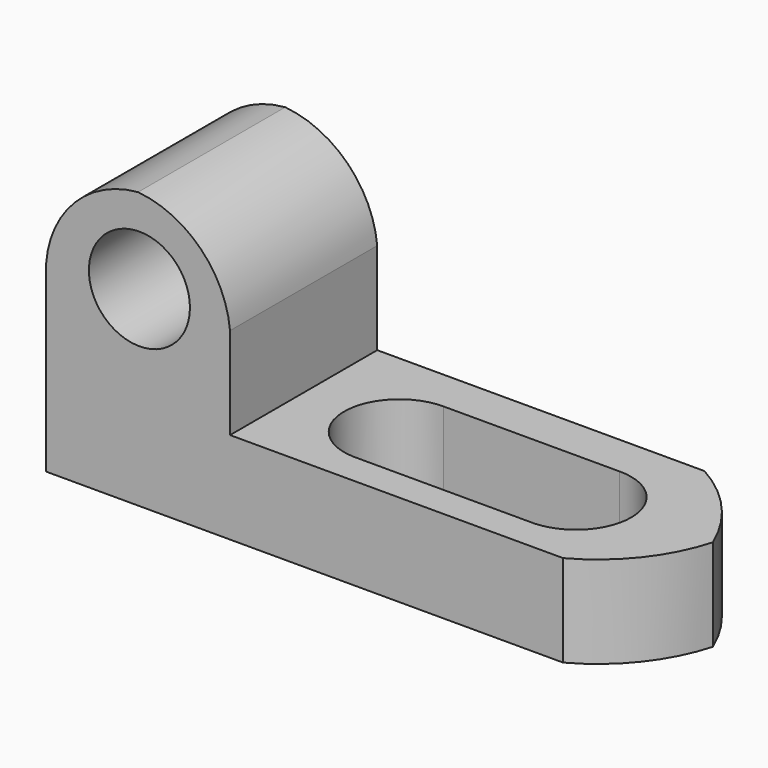
from build123d import *

# Parameters (mm, degrees)
F1_DEPTH = 25.4
F3_DEPTH = 25.4
F4_R     = 6.9752629403
F5_DEPTH = 25.4
F7_DEPTH = 25.4
F9_DEPTH = 25.4


with BuildPart() as f1:
    # F0 (on Front) → F1 (new body)
    with BuildSketch(Plane.XZ):
        with BuildLine():
            Line((0, 25.2437964082), (0, 0))
            Line((0, 0), (82.55, 0))
            Line((82.55, 0), (82.55, 12.7))
            Line((82.55, 12.7), (25.4, 12.7))
            Line((25.4, 12.7), (25.4, 25.4))
            ThreePointArc((25.4, 25.4), (21.338721964, 34.038721964), (12.7, 38.1))
            ThreePointArc((12.7, 38.1), (3.9765521081, 34.0165085715), (0, 25.2437964082))
        make_face()
    extrude(amount=F1_DEPTH)

    # F2 (on face) → F3 (cut)
    with BuildSketch(Plane.XY.offset(12.7)):
        with BuildLine():
            ThreePointArc((70.5987364054, 0), (78.1138192484, -4.9013082489), (82.55, -12.7))
            Line((82.55, -12.7), (82.55, 0))
            Line((82.55, 0), (70.5987364054, 0))
        make_face()
        with BuildLine():
            Line((82.55, -25.4), (82.55, -12.7))
            ThreePointArc((82.55, -12.7), (78.6112135374, -20.4997420186), (71.376748383, -25.4))
            Line((71.376748383, -25.4), (82.55, -25.4))
        make_face()
    extrude(amount=-F3_DEPTH, mode=Mode.SUBTRACT)

    # F4 (on face) → F5 (cut)
    with BuildSketch(Plane.XZ.offset(25.4)):
        with Locations((12.887516059, 26.3950787485)):
            Circle(F4_R)
    extrude(amount=-F5_DEPTH, mode=Mode.SUBTRACT)

    # F6 (on face) → F7 (cut)
    with BuildSketch(Plane.XY.offset(12.7)):
        with BuildLine():
            ThreePointArc((46.7944949583, -13.4114921093), (44.5635810438, -8.0266435433), (39.1781151252, -5.7972203415))
            ThreePointArc((39.1781151252, -5.7972203415), (31.5668924837, -13.2917465926), (38.938654761, -21.0219312446))
            Line((38.938654761, -21.0219312446), (39.4217910365, -21.0219312446))
            ThreePointArc((39.4217910365, -21.0219312446), (44.6490666759, -18.7094999177), (46.7944949583, -13.4114921093))
        make_face()
        with BuildLine():
            ThreePointArc((63.1514803528, -21.0219312446), (55.9492219457, -13.2618150882), (63.4506483721, -5.7905012482))
            Line((63.4506483721, -5.7905012482), (39.1781151252, -5.7972203415))
            ThreePointArc((39.1781151252, -5.7972203415), (44.5635810438, -8.0266435433), (46.7944949583, -13.4114921093))
            ThreePointArc((46.7944949583, -13.4114921093), (44.6490666759, -18.7094999177), (39.4217910365, -21.0219312446))
            Line((39.4217910365, -21.0219312446), (63.1514803528, -21.0219312446))
        make_face()
        with BuildLine():
            ThreePointArc((63.9878644586, -21.0219312446), (69.1050628574, -18.6510647038), (71.1915926641, -13.4114921093))
            ThreePointArc((71.1915926641, -13.4114921093), (68.9169369742, -7.9800622737), (63.4506483721, -5.7905012482))
            ThreePointArc((63.4506483721, -5.7905012482), (55.9492219457, -13.2618150882), (63.1514803528, -21.0219312446))
            Line((63.1514803528, -21.0219312446), (63.9878644586, -21.0219312446))
        make_face()
    extrude(amount=-F7_DEPTH, mode=Mode.SUBTRACT)

    # F8 (on face) → F9 (cut)
    with BuildSketch(Plane.XY.offset(12.7)):
        with BuildLine():
            ThreePointArc((70.5987364054, 0), (77.1764816954, -5.287668523), (81.6851109266, -12.4219823629))
            ThreePointArc((81.6851109266, -12.4219823629), (77.8552746278, -19.9629105497), (71.376748383, -25.4))
            ThreePointArc((71.376748383, -25.4), (78.6112135374, -20.4997420186), (82.55, -12.7))
            ThreePointArc((82.55, -12.7), (78.1138192484, -4.9013082489), (70.5987364054, 0))
        make_face()
    extrude(amount=-F9_DEPTH, mode=Mode.SUBTRACT)


solid = f1.part
